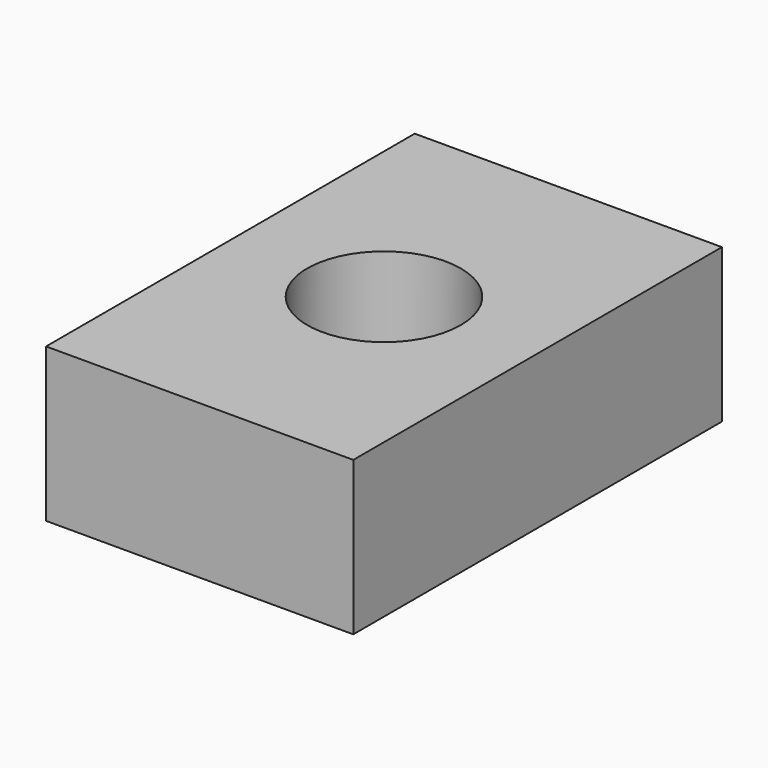
from build123d import *

# Parameters (mm, degrees)
F1_W     = 101.6
F1_H     = 152.4
F1_R     = 25.4
F2_DEPTH = 50.8


with BuildPart() as f2:
    # F1 (on face) → F2 (new body)
    with BuildSketch(Plane.XY):
        Rectangle(F1_W, F1_H)
        Circle(F1_R, mode=Mode.SUBTRACT)
    extrude(amount=F2_DEPTH)


solid = f2.part
